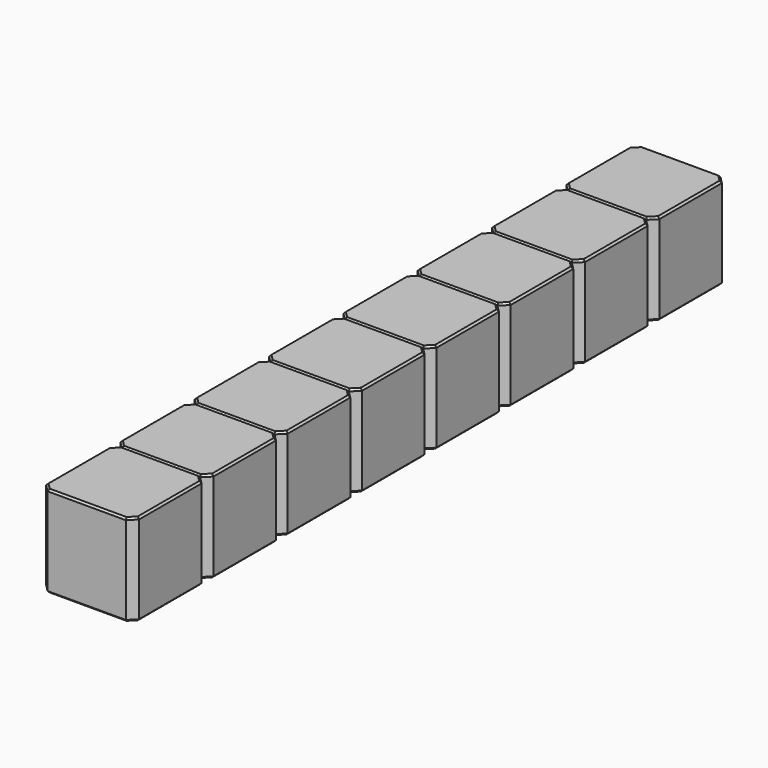
from build123d import *

# Parameters (mm, degrees)
SKETCH208_W      = 2.54
SKETCH208_H      = 2.54
PAD063_DEPTH     = 2.5
CHAMFER014_SIZE  = 0.2
CHAMFER013_SIZE  = 0.05
ARRAY001_Y_COUNT = 8
ARRAY001_Y_PITCH = 2.54


with BuildPart() as pin_base:
    # Sketch208 → Pad063 (new body)
    with BuildSketch(Plane.XY):
        Rectangle(SKETCH208_W, SKETCH208_H)
    extrude(amount=PAD063_DEPTH)

    # Chamfer014
    chamfer014_edges = [pin_base.edges().sort_by_distance(p)[0] for p in [
        (1.27, -1.27, 1.25),
        (-1.27, -1.27, 1.25),
        (1.27, 1.27, 1.25),
        (-1.27, 1.27, 1.25),
    ]]
    chamfer(chamfer014_edges, length=CHAMFER014_SIZE)

    # Chamfer013
    chamfer013_edges = [pin_base.edges().sort_by_distance(p)[0] for p in [
        (0, -1.27, 2.5),
        (-1.17, -1.17, 2.5),
        (1.17, -1.17, 2.5),
        (-1.27, 0, 2.5),
        (1.27, 0, 2.5),
        (-1.17, 1.17, 2.5),
        (1.17, 1.17, 2.5),
        (0, 1.27, 2.5),
        (0, -1.27, 0),
        (-1.17, -1.17, 0),
        (1.17, -1.17, 0),
        (-1.27, 0, 0),
        (1.27, 0, 0),
        (-1.17, 1.17, 0),
        (1.17, 1.17, 0),
        (0, 1.27, 0),
    ]]
    chamfer(chamfer013_edges, length=CHAMFER013_SIZE)


with BuildPart() as array001_copy1:
    # Array001 Y: instance of Pin Base
    add(pin_base.part.moved(Location(Vector(0, 1, 0) * (1 * ARRAY001_Y_PITCH))))


with BuildPart() as array001_copy2:
    # Array001 Y: instance of Pin Base
    add(pin_base.part.moved(Location(Vector(0, 1, 0) * (2 * ARRAY001_Y_PITCH))))


with BuildPart() as array001_copy3:
    # Array001 Y: instance of Pin Base
    add(pin_base.part.moved(Location(Vector(0, 1, 0) * (3 * ARRAY001_Y_PITCH))))


with BuildPart() as array001_copy4:
    # Array001 Y: instance of Pin Base
    add(pin_base.part.moved(Location(Vector(0, 1, 0) * (4 * ARRAY001_Y_PITCH))))


with BuildPart() as array001_copy5:
    # Array001 Y: instance of Pin Base
    add(pin_base.part.moved(Location(Vector(0, 1, 0) * (5 * ARRAY001_Y_PITCH))))


with BuildPart() as array001_copy6:
    # Array001 Y: instance of Pin Base
    add(pin_base.part.moved(Location(Vector(0, 1, 0) * (6 * ARRAY001_Y_PITCH))))


with BuildPart() as array001_copy7:
    # Array001 Y: instance of Pin Base
    add(pin_base.part.moved(Location(Vector(0, 1, 0) * (7 * ARRAY001_Y_PITCH))))


solid = Compound([pin_base.part, array001_copy1.part, array001_copy2.part, array001_copy3.part, array001_copy4.part, array001_copy5.part, array001_copy6.part, array001_copy7.part])
